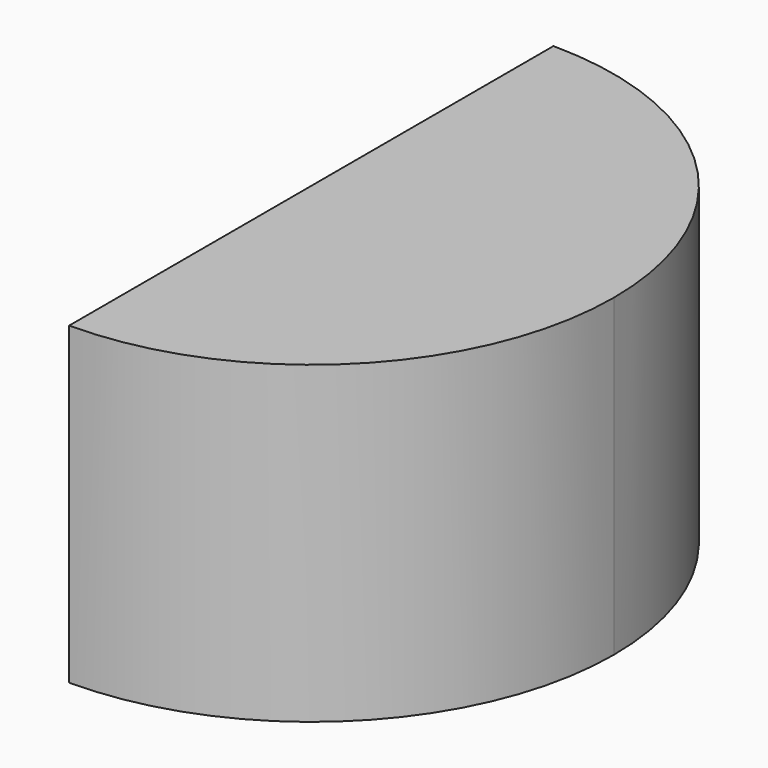
from build123d import *

# Parameters (mm, degrees)
F1_DEPTH = 72.39


with BuildPart() as f1:
    # F0 (on Top) → F1 (new body)
    with BuildSketch(Plane.XY):
        with BuildLine():
            ThreePointArc((-4.291742, 0), (-24.701275, 49.272969), (-73.974244, 69.682501))
            Line((-73.974244, 69.682501), (-73.974244, -69.682501))
            ThreePointArc((-73.974244, -69.682501), (-24.701275, -49.272969), (-4.291742, 0))
        make_face()
    extrude(amount=F1_DEPTH)


solid = f1.part
